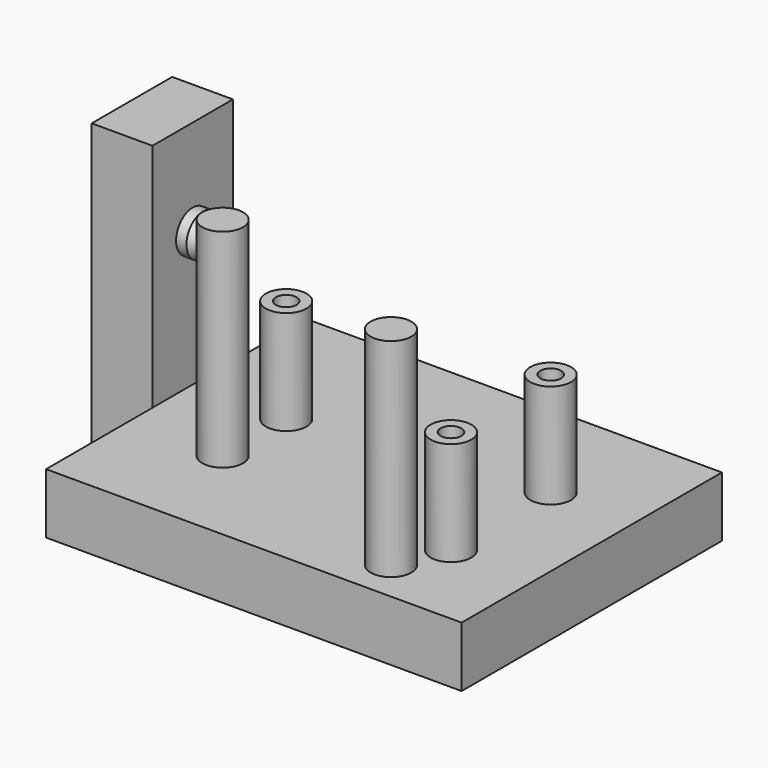
from build123d import *

# Parameters (mm, degrees)
F0_W      = 127
F0_H      = 99.441
F1_DEPTH  = 18.415
F2_W      = 18.5674
F2_H      = 30.734
F3_DEPTH  = 88.9
F7_R      = 6.223
F8_DEPTH  = 31.75
F10_R     = 6.223
F11_DEPTH = 31.75
F9_R      = 3.175
F12_DEPTH = 31.75


with BuildPart() as f1:
    # F0 (on Top) → F1 (new body)
    with BuildSketch(Plane.XY):
        with Locations((63.5, 49.7205)):
            Rectangle(F0_W, F0_H)
    extrude(amount=F1_DEPTH)

    # F2 (on Top) → F3 (join)
    with BuildSketch(Plane.XY):
        with Locations((-9.2837, 56.007)):
            Rectangle(F2_W, F2_H)
    extrude(amount=F3_DEPTH)

    # F5 (on offset) → F6 (revolve)
    with BuildSketch(Plane.XZ.offset(-56.007)):
        Polygon((0, 66.04), (0, 59.69), (10.033, 59.69), (10.033, 62.0395), (3.175, 66.04), align=None)
    revolve(axis=Axis((5.0165, 56.007, 59.69), (1, 0, 0)))

    # F7 (on face) → F8 (join)
    with BuildSketch(Plane.XY.offset(18.415)):
        with Locations((95.25, 12.7)):
            Circle(F7_R)
        with Locations((101.6, 27.686)):
            Circle(F7_R)
        with Locations((101.6, 65.786)):
            Circle(F7_R)
        with Locations((28.575, 56.007)):
            Circle(F7_R)
        with Locations((28.575, 31.75)):
            Circle(F7_R)
    extrude(amount=F8_DEPTH)

    # F10 (on face) → F11 (join)
    with BuildSketch(Plane.XY.offset(50.165)):
        with Locations((95.25, 12.7)):
            Circle(F10_R)
        with Locations((28.575, 31.75)):
            Circle(F10_R)
    extrude(amount=F11_DEPTH)

    # F9 (on face) → F12 (cut)
    with BuildSketch(Plane.XY.offset(50.165)):
        with Locations((28.575, 56.007)):
            Circle(F9_R)
        with Locations((101.6, 65.786)):
            Circle(F9_R)
        with Locations((101.6, 27.686)):
            Circle(F9_R)
    extrude(amount=-F12_DEPTH, mode=Mode.SUBTRACT)


solid = f1.part
